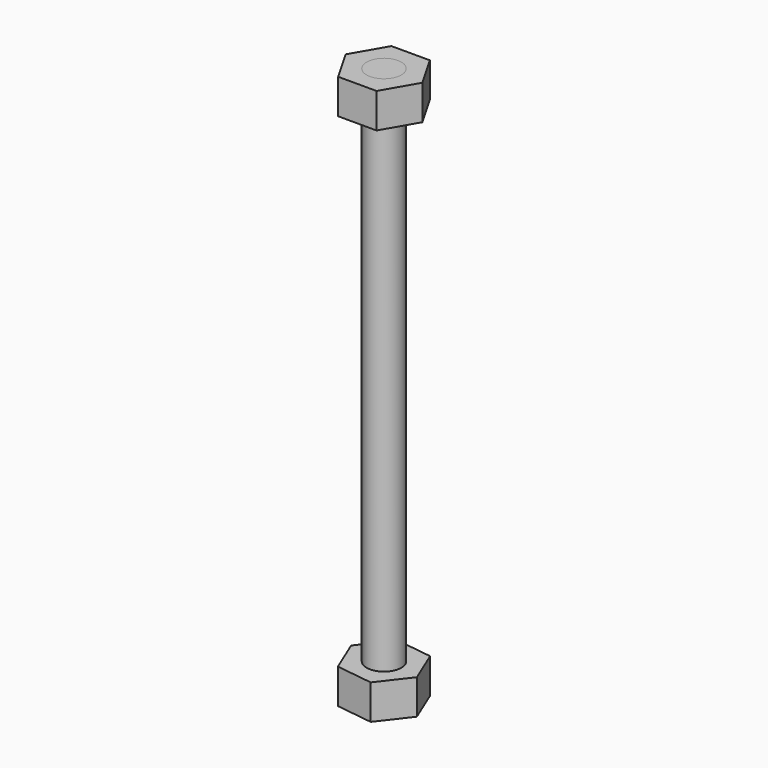
from build123d import *

# Parameters (mm, degrees)
F0_R     = 6
F1_DEPTH = 192
F2_DEPTH = 12
F3_R     = 6
F4_DEPTH = 12


with BuildPart() as f1:
    # F0 (on Top) → F1 (new body)
    with BuildSketch(Plane.XY):
        Circle(F0_R)
    extrude(amount=F1_DEPTH)

    # F0 (on Top) → F2 (join)
    with BuildSketch(Plane.XY):
        Polygon((-4.8783502823, 11.8265430801), (-12.6812618875, 1.688496267), (-7.8029116052, -10.1380468131), (4.8783502823, -11.8265430801), (12.6812618875, -1.688496267), (7.8029116052, 10.1380468131), align=None)
        Circle(F0_R, mode=Mode.SUBTRACT)
    extrude(amount=F2_DEPTH)


with BuildPart() as f4:
    # F3 (on face) → F4 (new body)
    with BuildSketch(Plane.XY.offset(192)):
        Polygon((-6.621212456, -11.4682763815), (6.621212456, -11.4682763815), (13.242424912, 0), (6.621212456, 11.4682763815), (-6.621212456, 11.4682763815), (-13.242424912, 0), align=None)
        Circle(F3_R, mode=Mode.SUBTRACT)
    extrude(amount=-F4_DEPTH)


solid = Compound([f1.part, f4.part])
